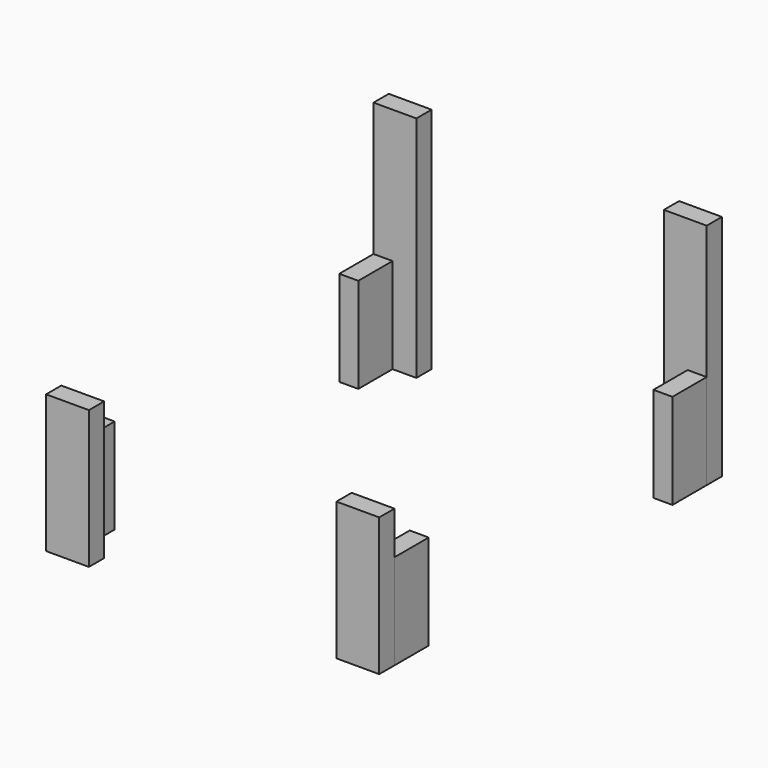
from build123d import *

# Parameters (mm, degrees)
F1_DEPTH = 736.6
F2_DEPTH = 1219.2
F0_W     = 101.6
F0_H     = 228.6
F3_DEPTH = 508


with BuildPart() as f1:
    # F0 (on Top) → F1 (new body)
    with BuildSketch(Plane.XY):
        Polygon((-1447.8, -2158.965689), (-1447.8, -2057.365689), (-1574.8, -2057.365689), (-1676.4, -2057.365689), (-1676.4, -2158.965689), align=None)
        Polygon((101.6, -2158.965689), (101.6, -2057.365689), (0, -2057.365689), (-127, -2057.365689), (-127, -2158.965689), align=None)
    extrude(amount=F1_DEPTH)


with BuildPart() as f2:
    # F0 (on Top) → F2 (new body)
    with BuildSketch(Plane.XY):
        Polygon((-1574.8, 25.434311), (-1447.8, 25.434311), (-1447.8, 127.034311), (-1676.4, 127.034311), (-1676.4, 25.434311), align=None)
        Polygon((-127, 127.034311), (-127, 25.434311), (0, 25.434311), (101.6, 25.434311), (101.6, 127.034311), align=None)
    extrude(amount=F2_DEPTH)


with BuildPart() as f3:
    # F0 (on Top) → F3 (new body)
    with BuildSketch(Plane.XY):
        with Locations((-1625.6, -88.865689)):
            Rectangle(F0_W, F0_H)
        with Locations((50.8, -88.865689)):
            Rectangle(F0_W, F0_H)
        with Locations((-1625.6, -1943.065689)):
            Rectangle(F0_W, F0_H)
        with Locations((50.8, -1943.065689)):
            Rectangle(F0_W, F0_H)
    extrude(amount=F3_DEPTH)


solid = Compound([f1.part, f2.part, f3.part])
